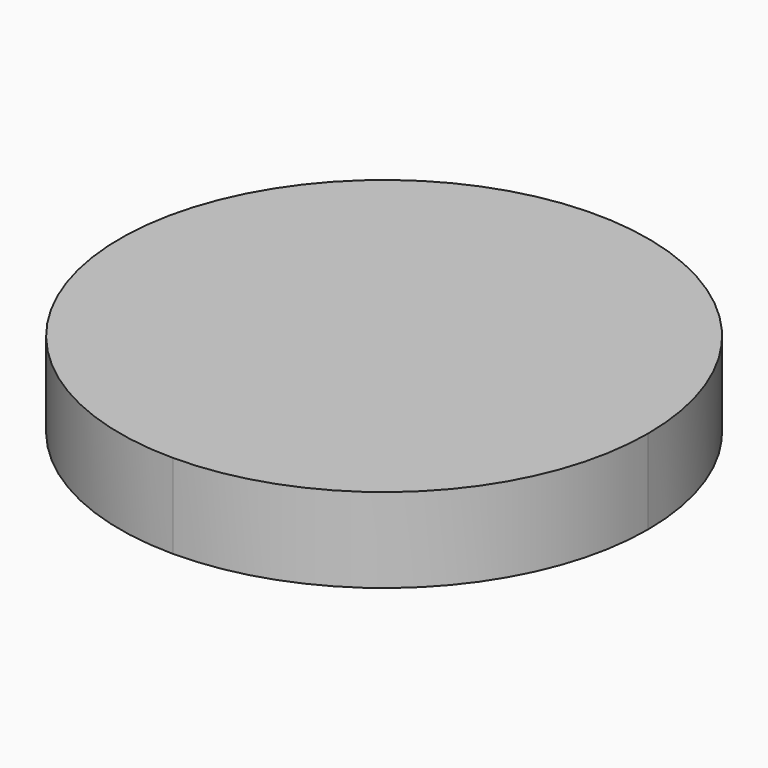
from build123d import *

# Parameters (mm, degrees)
F1_DEPTH = 5.08


with BuildPart() as f1:
    # F0 (on Top) → F1 (new body)
    with BuildSketch(Plane.XY):
        with BuildLine():
            ThreePointArc((0, -15.875), (11.22532, -11.22532), (15.875, 0))
            ThreePointArc((15.875, 0), (-11.22532, 11.22532), (0, -15.875))
        make_face()
    extrude(amount=F1_DEPTH)


solid = f1.part
